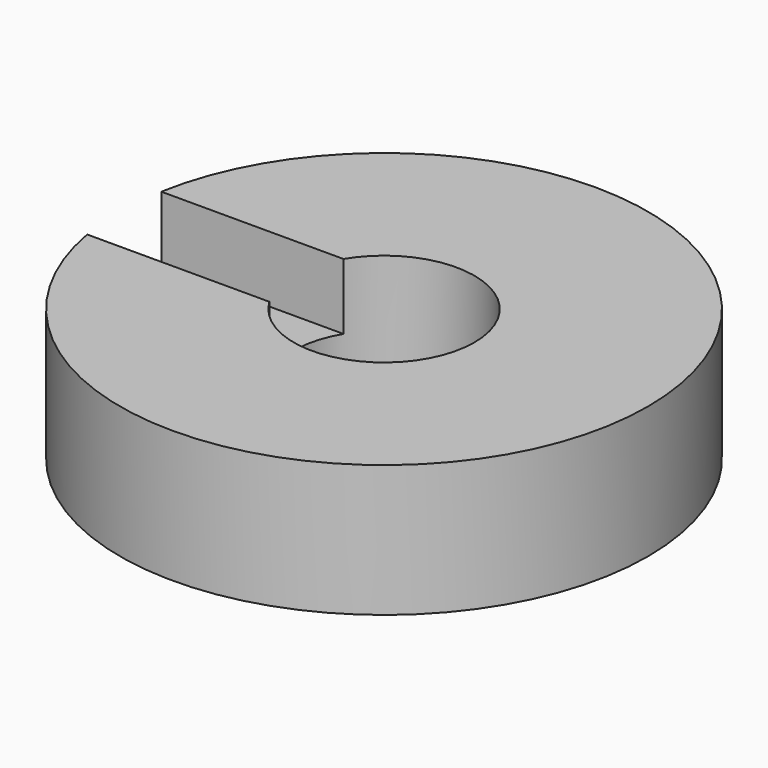
from build123d import *

# Parameters (mm, degrees)
F0_R     = 25.4
F1_DEPTH = 12.7
F2_R     = 8.6995
F3_DEPTH = 25.4
F4_W     = 19.947653
F4_H     = 8.920466
F5_DEPTH = 6.35
F6_SIZE  = 0.635


with BuildPart() as f1:
    # F0 (on Top) → F1 (new body)
    with BuildSketch(Plane.XY):
        Circle(F0_R)
    extrude(amount=F1_DEPTH)

    # F2 (on face) → F3 (cut)
    with BuildSketch(Plane.XY.offset(12.7)):
        Circle(F2_R)
    extrude(amount=-F3_DEPTH, mode=Mode.SUBTRACT)

    # F4 (on face) → F5 (cut)
    with BuildSketch(Plane.XY.offset(12.7)):
        with Locations((-17.442937, 0)):
            Rectangle(F4_W, F4_H)
    extrude(amount=-F5_DEPTH, mode=Mode.SUBTRACT)

    # F6
    f6_edges = [f1.edges().sort_by_distance(p)[0] for p in [
        (-8.6995, 0, 0),
    ]]
    chamfer(f6_edges, length=F6_SIZE)


solid = f1.part
